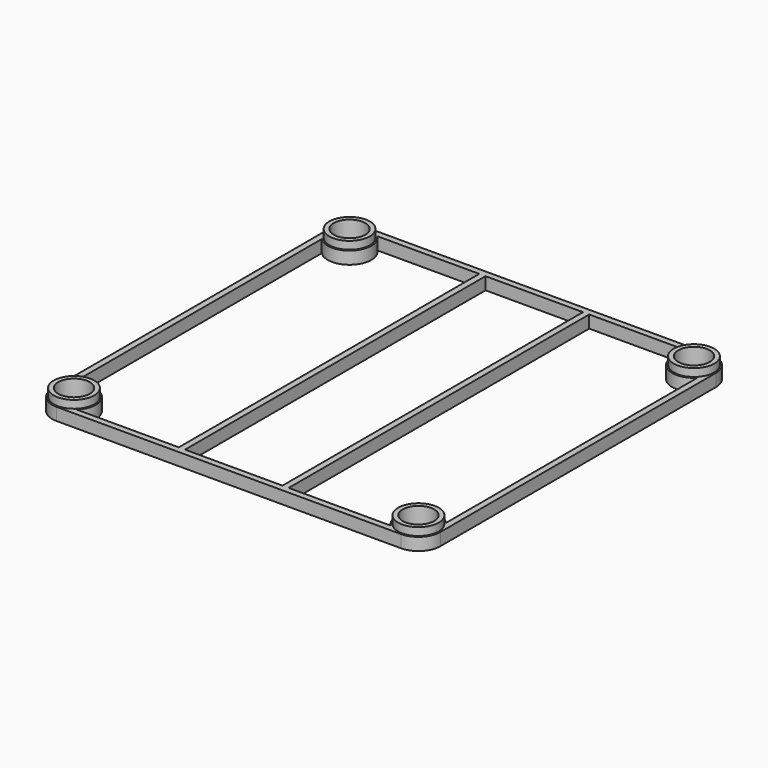
from build123d import *

# Parameters (mm, degrees)
F3_W     = 1.6
F3_H     = 96.388348
F4_R     = 5.2
F5_R     = 4.05
F8_DEPTH = 5.201


with BuildPart() as f6:
    # F6: sweep along a path in F1
    with BuildLine(Plane.XZ) as f6_path:
        Line((0, 0), (0, 0.6))
        Line((0, 0.6), (0, 3.2))
    # F2 (on Top) + F3 (on Top) → F6 (sweep)
    with BuildSketch(Plane.XY):
        with BuildLine():
            ThreePointArc((49.794174, 44.194174), (48.153972, 48.153972), (44.194174, 49.794174))
            Line((44.194174, 49.794174), (0, 49.794174))
            Line((0, 49.794174), (-44.194174, 49.794174))
            ThreePointArc((-44.194174, 49.794174), (-48.153972, 48.153972), (-49.794174, 44.194174))
            Line((-49.794174, 44.194174), (-49.794174, 0))
            Line((-49.794174, 0), (-49.794174, -44.194174))
            ThreePointArc((-49.794174, -44.194174), (-48.153972, -48.153972), (-44.194174, -49.794174))
            Line((-44.194174, -49.794174), (0, -49.794174))
            Line((0, -49.794174), (44.194174, -49.794174))
            ThreePointArc((44.194174, -49.794174), (48.153972, -48.153972), (49.794174, -44.194174))
            Line((49.794174, -44.194174), (49.794174, 0))
            Line((49.794174, 0), (49.794174, 44.194174))
        make_face()
        with BuildLine():
            Line((0, 48.194174), (40.27499, 48.194174))
            ThreePointArc((40.27499, 48.194174), (40.234376, 40.234376), (48.194174, 40.27499))
            Line((48.194174, 40.27499), (48.194174, 0))
            Line((48.194174, 0), (48.194174, -40.27499))
            ThreePointArc((48.194174, -40.27499), (40.234376, -40.234376), (40.27499, -48.194174))
            Line((40.27499, -48.194174), (0, -48.194174))
            Line((0, -48.194174), (-40.27499, -48.194174))
            ThreePointArc((-40.27499, -48.194174), (-40.234376, -40.234376), (-48.194174, -40.27499))
            Line((-48.194174, -40.27499), (-48.194174, 0))
            Line((-48.194174, 0), (-48.194174, 40.27499))
            ThreePointArc((-48.194174, 40.27499), (-40.234376, 40.234376), (-40.27499, 48.194174))
            Line((-40.27499, 48.194174), (0, 48.194174))
        make_face(mode=Mode.SUBTRACT)
    with BuildSketch(Plane.XY):
        with Locations((-13.3, 0)):
            Rectangle(F3_W, F3_H)
        with Locations((13.3, 0)):
            Rectangle(F3_W, F3_H)
    sweep(path=f6_path.line)

    # F7: sweep along a path in F1
    with BuildLine(Plane.XZ) as f7_path:
        Line((0, 0), (0, 0.6))
        Line((0, 0.6), (0, 3.2))
        Line((0, 3.2), (0, 5.2))
    # F4 (on Top) → F7 (sweep)
    with BuildSketch(Plane.XY):
        with Locations((44.194174, 44.194174)):
            Circle(F4_R)
        with Locations((-44.194174, 44.194174)):
            Circle(F4_R)
        with Locations((-44.194174, -44.194174)):
            Circle(F4_R)
        with Locations((44.194174, -44.194174)):
            Circle(F4_R)
    sweep(path=f7_path.line)

    # F5 (on Top) → F8 (cut, through all)
    with BuildSketch(Plane.XY):
        with Locations((44.194174, 44.194174)):
            Circle(F5_R)
        with Locations((-44.194174, 44.194174)):
            Circle(F5_R)
        with Locations((-44.194174, -44.194174)):
            Circle(F5_R)
        with Locations((44.194174, -44.194174)):
            Circle(F5_R)
    extrude(amount=F8_DEPTH, mode=Mode.SUBTRACT)


solid = f6.part
